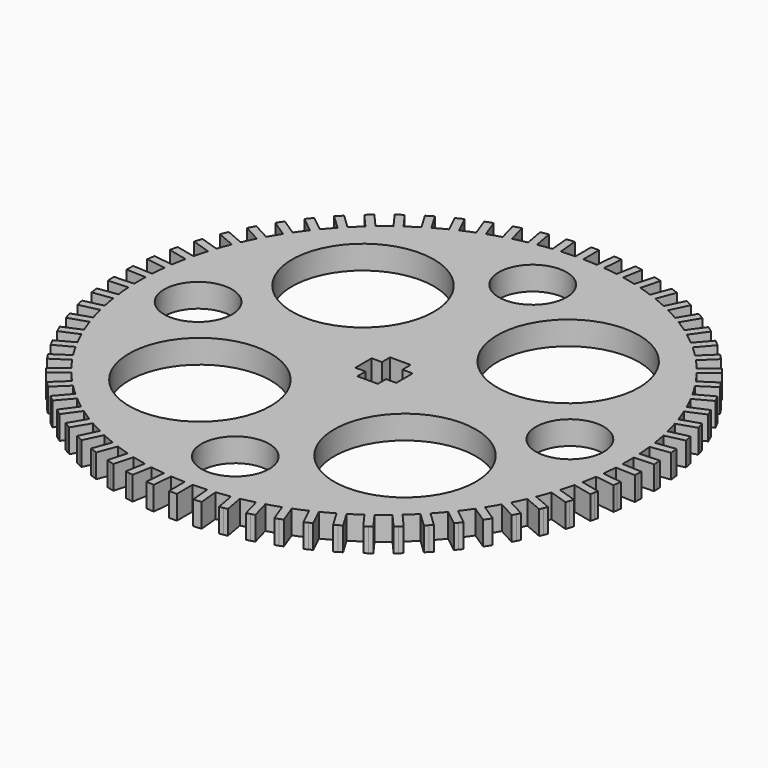
from build123d import *

# Parameters (mm, degrees)
F0_R     = 9
F0_R_2   = 4.305579
F1_DEPTH = 3


with BuildPart() as f1:
    # F0 (on Top) → F1 (new body)
    with BuildSketch(Plane.XY):
        with BuildLine():
            ThreePointArc((30.987189, -0.891132), (30.996797, -0.445612), (31, 0))
            ThreePointArc((31, 0), (30.996797, 0.445612), (30.987189, 0.891132))
            ThreePointArc((30.987189, 0.891132), (30.968785, 1.39081), (30.942324, 1.890125))
            ThreePointArc((30.942324, 1.890125), (30.875203, 2.778819), (30.782563, 3.665215))
            ThreePointArc((30.782563, 3.665215), (30.719443, 4.161231), (30.64833, 4.656165))
            ThreePointArc((30.64833, 4.656165), (30.501817, 5.535264), (30.330094, 6.409788))
            ThreePointArc((30.330094, 6.409788), (30.222765, 6.898149), (30.107573, 7.384716))
            ThreePointArc((30.107573, 7.384716), (29.882849, 8.247142), (29.633425, 9.102752))
            ThreePointArc((29.633425, 9.102752), (29.482752, 9.579527), (29.324408, 10.053809))
            ThreePointArc((29.324408, 10.053809), (29.023281, 10.89262), (28.698165, 11.722427))
            ThreePointArc((28.698165, 11.722427), (28.505361, 12.183776), (28.30514, 12.641955))
            ThreePointArc((28.30514, 12.641955), (27.930035, 13.450396), (27.531845, 14.24772))
            ThreePointArc((27.531845, 14.24772), (27.298461, 14.689929), (27.057976, 15.128315))
            ThreePointArc((27.057976, 15.128315), (26.611913, 15.899878), (26.143854, 16.658298))
            ThreePointArc((26.143854, 16.658298), (25.871771, 17.077806), (25.592957, 17.492872))
            ThreePointArc((25.592957, 17.492872), (25.079527, 18.221343), (24.545368, 18.934754))
            ThreePointArc((24.545368, 18.934754), (24.236776, 19.328184), (23.921878, 19.716585))
            ThreePointArc((23.921878, 19.716585), (23.345215, 20.396101), (22.749257, 21.058758))
            ThreePointArc((22.749257, 21.058758), (22.406641, 21.422942), (22.058195, 21.781553))
            ThreePointArc((22.058195, 21.781553), (21.422942, 22.406641), (20.769983, 23.013209))
            ThreePointArc((20.769983, 23.013209), (20.396101, 23.345215), (20.016912, 23.671148))
            ThreePointArc((20.016912, 23.671148), (19.328184, 24.236776), (18.623481, 24.782372))
            ThreePointArc((18.623481, 24.782372), (18.221343, 25.079527), (17.814464, 25.370157))
            ThreePointArc((17.814464, 25.370157), (17.077806, 25.871771), (16.327034, 26.352001))
            ThreePointArc((16.327034, 26.352001), (15.899878, 26.611913), (15.468585, 26.864901))
            ThreePointArc((15.468585, 26.864901), (14.689929, 27.298461), (13.899131, 27.70946))
            ThreePointArc((13.899131, 27.70946), (13.450396, 27.930035), (12.998162, 28.143344))
            ThreePointArc((12.998162, 28.143344), (12.183776, 28.505361), (11.35932, 28.843818))
            ThreePointArc((11.35932, 28.843818), (10.89262, 29.023281), (10.423085, 29.195193))
            ThreePointArc((10.423085, 29.195193), (9.579527, 29.482752), (8.728051, 29.745943))
            ThreePointArc((8.728051, 29.745943), (8.247142, 29.882849), (7.764088, 30.01198))
            ThreePointArc((7.764088, 30.01198), (6.898149, 30.222765), (6.026508, 30.408571))
            ThreePointArc((6.026508, 30.408571), (5.535264, 30.501817), (5.042579, 30.587128))
            ThreePointArc((5.042579, 30.587128), (4.161231, 30.719443), (3.276444, 30.826367))
            ThreePointArc((3.276444, 30.826367), (2.778819, 30.875203), (2.28047, 30.916006))
            ThreePointArc((2.28047, 30.916006), (1.39081, 30.968785), (0.5, 30.995967))
            ThreePointArc((0.5, 30.995967), (0.250008, 30.998992), (0, 31))
            ThreePointArc((0, 31), (-0.250008, 30.998992), (-0.5, 30.995967))
            ThreePointArc((-0.5, 30.995967), (-1.39081, 30.968785), (-2.28047, 30.916006))
            ThreePointArc((-2.28047, 30.916006), (-2.778819, 30.875203), (-3.276444, 30.826367))
            ThreePointArc((-3.276444, 30.826367), (-4.161231, 30.719443), (-5.042579, 30.587128))
            ThreePointArc((-5.042579, 30.587128), (-5.535264, 30.501817), (-6.026508, 30.408571))
            ThreePointArc((-6.026508, 30.408571), (-6.898149, 30.222765), (-7.764088, 30.01198))
            ThreePointArc((-7.764088, 30.01198), (-8.247142, 29.882849), (-8.728051, 29.745943))
            ThreePointArc((-8.728051, 29.745943), (-9.579527, 29.482752), (-10.423085, 29.195193))
            ThreePointArc((-10.423085, 29.195193), (-10.89262, 29.023281), (-11.35932, 28.843818))
            ThreePointArc((-11.35932, 28.843818), (-12.183776, 28.505361), (-12.998162, 28.143344))
            ThreePointArc((-12.998162, 28.143344), (-13.450396, 27.930035), (-13.899131, 27.70946))
            ThreePointArc((-13.899131, 27.70946), (-14.689929, 27.298461), (-15.468585, 26.864901))
            ThreePointArc((-15.468585, 26.864901), (-15.899878, 26.611913), (-16.327034, 26.352001))
            ThreePointArc((-16.327034, 26.352001), (-17.077806, 25.871771), (-17.814464, 25.370157))
            ThreePointArc((-17.814464, 25.370157), (-18.221343, 25.079527), (-18.623481, 24.782372))
            ThreePointArc((-18.623481, 24.782372), (-19.328184, 24.236776), (-20.016912, 23.671148))
            ThreePointArc((-20.016912, 23.671148), (-20.396101, 23.345215), (-20.769983, 23.013209))
            ThreePointArc((-20.769983, 23.013209), (-21.422942, 22.406641), (-22.058195, 21.781553))
            ThreePointArc((-22.058195, 21.781553), (-22.406641, 21.422942), (-22.749257, 21.058758))
            ThreePointArc((-22.749257, 21.058758), (-23.345215, 20.396101), (-23.921878, 19.716585))
            ThreePointArc((-23.921878, 19.716585), (-24.236776, 19.328184), (-24.545368, 18.934754))
            ThreePointArc((-24.545368, 18.934754), (-25.079527, 18.221343), (-25.592957, 17.492872))
            ThreePointArc((-25.592957, 17.492872), (-25.871771, 17.077806), (-26.143854, 16.658298))
            ThreePointArc((-26.143854, 16.658298), (-26.611913, 15.899878), (-27.057976, 15.128315))
            ThreePointArc((-27.057976, 15.128315), (-27.298461, 14.689929), (-27.531845, 14.24772))
            ThreePointArc((-27.531845, 14.24772), (-27.930035, 13.450396), (-28.30514, 12.641955))
            ThreePointArc((-28.30514, 12.641955), (-28.505361, 12.183776), (-28.698165, 11.722427))
            ThreePointArc((-28.698165, 11.722427), (-29.023281, 10.89262), (-29.324408, 10.053809))
            ThreePointArc((-29.324408, 10.053809), (-29.482752, 9.579527), (-29.633425, 9.102752))
            ThreePointArc((-29.633425, 9.102752), (-29.882849, 8.247142), (-30.107573, 7.384716))
            ThreePointArc((-30.107573, 7.384716), (-30.222765, 6.898149), (-30.330094, 6.409788))
            ThreePointArc((-30.330094, 6.409788), (-30.501817, 5.535264), (-30.64833, 4.656165))
            ThreePointArc((-30.64833, 4.656165), (-30.719443, 4.161231), (-30.782563, 3.665215))
            ThreePointArc((-30.782563, 3.665215), (-30.875203, 2.778819), (-30.942324, 1.890125))
            ThreePointArc((-30.942324, 1.890125), (-30.968785, 1.39081), (-30.987189, 0.891132))
            ThreePointArc((-30.987189, 0.891132), (-31, 0), (-30.987189, -0.891132))
            ThreePointArc((-30.987189, -0.891132), (-30.968785, -1.39081), (-30.942324, -1.890125))
            ThreePointArc((-30.942324, -1.890125), (-30.875203, -2.778819), (-30.782563, -3.665215))
            ThreePointArc((-30.782563, -3.665215), (-30.719443, -4.161231), (-30.64833, -4.656165))
            ThreePointArc((-30.64833, -4.656165), (-30.501817, -5.535264), (-30.330094, -6.409788))
            ThreePointArc((-30.330094, -6.409788), (-30.222765, -6.898149), (-30.107573, -7.384716))
            ThreePointArc((-30.107573, -7.384716), (-29.882849, -8.247142), (-29.633425, -9.102752))
            ThreePointArc((-29.633425, -9.102752), (-29.482752, -9.579527), (-29.324408, -10.053809))
            ThreePointArc((-29.324408, -10.053809), (-29.023281, -10.89262), (-28.698165, -11.722427))
            ThreePointArc((-28.698165, -11.722427), (-28.505361, -12.183776), (-28.30514, -12.641955))
            ThreePointArc((-28.30514, -12.641955), (-27.930035, -13.450396), (-27.531845, -14.24772))
            ThreePointArc((-27.531845, -14.24772), (-27.298461, -14.689929), (-27.057976, -15.128315))
            ThreePointArc((-27.057976, -15.128315), (-26.611913, -15.899878), (-26.143854, -16.658298))
            ThreePointArc((-26.143854, -16.658298), (-25.871771, -17.077806), (-25.592957, -17.492872))
            ThreePointArc((-25.592957, -17.492872), (-25.079527, -18.221343), (-24.545368, -18.934754))
            ThreePointArc((-24.545368, -18.934754), (-24.236776, -19.328184), (-23.921878, -19.716585))
            ThreePointArc((-23.921878, -19.716585), (-23.345215, -20.396101), (-22.749257, -21.058758))
            ThreePointArc((-22.749257, -21.058758), (-22.406641, -21.422942), (-22.058195, -21.781553))
            ThreePointArc((-22.058195, -21.781553), (-21.422942, -22.406641), (-20.769983, -23.013209))
            ThreePointArc((-20.769983, -23.013209), (-20.396101, -23.345215), (-20.016912, -23.671148))
            ThreePointArc((-20.016912, -23.671148), (-19.328184, -24.236776), (-18.623481, -24.782372))
            ThreePointArc((-18.623481, -24.782372), (-18.221343, -25.079527), (-17.814464, -25.370157))
            ThreePointArc((-17.814464, -25.370157), (-17.077806, -25.871771), (-16.327034, -26.352001))
            ThreePointArc((-16.327034, -26.352001), (-15.899878, -26.611913), (-15.468585, -26.864901))
            ThreePointArc((-15.468585, -26.864901), (-14.689929, -27.298461), (-13.899131, -27.70946))
            ThreePointArc((-13.899131, -27.70946), (-13.450396, -27.930035), (-12.998162, -28.143344))
            ThreePointArc((-12.998162, -28.143344), (-12.183776, -28.505361), (-11.35932, -28.843818))
            ThreePointArc((-11.35932, -28.843818), (-10.89262, -29.023281), (-10.423085, -29.195193))
            ThreePointArc((-10.423085, -29.195193), (-9.579527, -29.482752), (-8.728051, -29.745943))
            ThreePointArc((-8.728051, -29.745943), (-8.247142, -29.882849), (-7.764088, -30.01198))
            ThreePointArc((-7.764088, -30.01198), (-6.898149, -30.222765), (-6.026508, -30.408571))
            ThreePointArc((-6.026508, -30.408571), (-5.535264, -30.501817), (-5.042579, -30.587128))
            ThreePointArc((-5.042579, -30.587128), (-4.161231, -30.719443), (-3.276444, -30.826367))
            ThreePointArc((-3.276444, -30.826367), (-2.778819, -30.875203), (-2.28047, -30.916006))
            ThreePointArc((-2.28047, -30.916006), (-1.39081, -30.968785), (-0.5, -30.995967))
            ThreePointArc((-0.5, -30.995967), (0, -31), (0.5, -30.995967))
            ThreePointArc((0.5, -30.995967), (1.39081, -30.968785), (2.28047, -30.916006))
            ThreePointArc((2.28047, -30.916006), (2.778819, -30.875203), (3.276444, -30.826367))
            ThreePointArc((3.276444, -30.826367), (4.161231, -30.719443), (5.042579, -30.587128))
            ThreePointArc((5.042579, -30.587128), (5.535264, -30.501817), (6.026508, -30.408571))
            ThreePointArc((6.026508, -30.408571), (6.898149, -30.222765), (7.764088, -30.01198))
            ThreePointArc((7.764088, -30.01198), (8.247142, -29.882849), (8.728051, -29.745943))
            ThreePointArc((8.728051, -29.745943), (9.579527, -29.482752), (10.423085, -29.195193))
            ThreePointArc((10.423085, -29.195193), (10.89262, -29.023281), (11.35932, -28.843818))
            ThreePointArc((11.35932, -28.843818), (12.183776, -28.505361), (12.998162, -28.143344))
            ThreePointArc((12.998162, -28.143344), (13.450396, -27.930035), (13.899131, -27.70946))
            ThreePointArc((13.899131, -27.70946), (14.689929, -27.298461), (15.468585, -26.864901))
            ThreePointArc((15.468585, -26.864901), (15.899878, -26.611913), (16.327034, -26.352001))
            ThreePointArc((16.327034, -26.352001), (17.077806, -25.871771), (17.814464, -25.370157))
            ThreePointArc((17.814464, -25.370157), (18.221343, -25.079527), (18.623481, -24.782372))
            ThreePointArc((18.623481, -24.782372), (19.328184, -24.236776), (20.016912, -23.671148))
            ThreePointArc((20.016912, -23.671148), (20.396101, -23.345215), (20.769983, -23.013209))
            ThreePointArc((20.769983, -23.013209), (21.422942, -22.406641), (22.058195, -21.781553))
            ThreePointArc((22.058195, -21.781553), (22.406641, -21.422942), (22.749257, -21.058758))
            ThreePointArc((22.749257, -21.058758), (23.345215, -20.396101), (23.921878, -19.716585))
            ThreePointArc((23.921878, -19.716585), (24.236776, -19.328184), (24.545368, -18.934754))
            ThreePointArc((24.545368, -18.934754), (25.079527, -18.221343), (25.592957, -17.492872))
            ThreePointArc((25.592957, -17.492872), (25.871771, -17.077806), (26.143854, -16.658298))
            ThreePointArc((26.143854, -16.658298), (26.611913, -15.899878), (27.057976, -15.128315))
            ThreePointArc((27.057976, -15.128315), (27.298461, -14.689929), (27.531845, -14.24772))
            ThreePointArc((27.531845, -14.24772), (27.930035, -13.450396), (28.30514, -12.641955))
            ThreePointArc((28.30514, -12.641955), (28.505361, -12.183776), (28.698165, -11.722427))
            ThreePointArc((28.698165, -11.722427), (29.023281, -10.89262), (29.324408, -10.053809))
            ThreePointArc((29.324408, -10.053809), (29.482752, -9.579527), (29.633425, -9.102752))
            ThreePointArc((29.633425, -9.102752), (29.882849, -8.247142), (30.107573, -7.384716))
            ThreePointArc((30.107573, -7.384716), (30.222765, -6.898149), (30.330094, -6.409788))
            ThreePointArc((30.330094, -6.409788), (30.501817, -5.535264), (30.64833, -4.656165))
            ThreePointArc((30.64833, -4.656165), (30.719443, -4.161231), (30.782563, -3.665215))
            ThreePointArc((30.782563, -3.665215), (30.875203, -2.778819), (30.942324, -1.890125))
            ThreePointArc((30.942324, -1.890125), (30.968785, -1.39081), (30.987189, -0.891132))
        make_face()
        with Locations((-13.022257, -12.945549)):
            Circle(F0_R, mode=Mode.SUBTRACT)
        with Locations((0, -23.602057)):
            Circle(F0_R_2, mode=Mode.SUBTRACT)
        with Locations((13.022257, -12.945549)):
            Circle(F0_R, mode=Mode.SUBTRACT)
        with Locations((-23.602057, 0)):
            Circle(F0_R_2, mode=Mode.SUBTRACT)
        with Locations((-13.022257, 12.945549)):
            Circle(F0_R, mode=Mode.SUBTRACT)
        Polygon((-1.3, 2.6), (0, 2.6), (1.3, 2.6), (1.3, 1.3), (2.6, 1.3), (2.6, 0), (2.6, -1.3), (1.3, -1.3), (1.3, -2.6), (0, -2.6), (-1.3, -2.6), (-1.3, -1.3), (-2.6, -1.3), (-2.6, 0), (-2.6, 1.3), (-1.3, 1.3), align=None, mode=Mode.SUBTRACT)
        with Locations((13.022257, 12.945549)):
            Circle(F0_R, mode=Mode.SUBTRACT)
        with Locations((23.602057, 0)):
            Circle(F0_R_2, mode=Mode.SUBTRACT)
        with Locations((0, 23.602057)):
            Circle(F0_R_2, mode=Mode.SUBTRACT)
        with BuildLine():
            ThreePointArc((30.942324, 1.890125), (30.968785, 1.39081), (30.987189, 0.891132))
            Line((30.987189, 0.891132), (33.4887, 1.003475))
            Line((33.4887, 1.003475), (33.466268, 1.502972))
            Line((33.466268, 1.502972), (33.443835, 2.002468))
            Line((33.443835, 2.002468), (30.942324, 1.890125))
        make_face()
        with BuildLine():
            Line((33.4887, -1.003475), (30.987189, -0.891132))
            ThreePointArc((30.987189, -0.891132), (30.968785, -1.39081), (30.942324, -1.890125))
            Line((30.942324, -1.890125), (33.443835, -2.002468))
            Line((33.443835, -2.002468), (33.466268, -1.502972))
            Line((33.466268, -1.502972), (33.4887, -1.003475))
        make_face()
        with BuildLine():
            ThreePointArc((30.64833, 4.656165), (30.719443, 4.161231), (30.782563, 3.665215))
            Line((30.782563, 3.665215), (33.263934, 4.00134))
            Line((33.263934, 4.00134), (33.196817, 4.496814))
            Line((33.196817, 4.496814), (33.1297, 4.992289))
            Line((33.1297, 4.992289), (30.64833, 4.656165))
        make_face()
        with BuildLine():
            Line((33.263934, -4.00134), (30.782563, -3.665215))
            ThreePointArc((30.782563, -3.665215), (30.719443, -4.161231), (30.64833, -4.656165))
            Line((30.64833, -4.656165), (33.1297, -4.992289))
            Line((33.1297, -4.992289), (33.196817, -4.496814))
            Line((33.196817, -4.496814), (33.263934, -4.00134))
        make_face()
        with BuildLine():
            ThreePointArc((30.107573, 7.384716), (30.222765, 6.898149), (30.330094, 6.409788))
            Line((30.330094, 6.409788), (32.771346, 6.966987))
            Line((32.771346, 6.966987), (32.660085, 7.454451))
            Line((32.660085, 7.454451), (32.548825, 7.941915))
            Line((32.548825, 7.941915), (30.107573, 7.384716))
        make_face()
        with BuildLine():
            Line((32.771346, -6.966987), (30.330094, -6.409788))
            ThreePointArc((30.330094, -6.409788), (30.222765, -6.898149), (30.107573, -7.384716))
            Line((30.107573, -7.384716), (32.548825, -7.941915))
            Line((32.548825, -7.941915), (32.660085, -7.454451))
            Line((32.660085, -7.454451), (32.771346, -6.966987))
        make_face()
        with BuildLine():
            ThreePointArc((29.324408, 10.053809), (29.482752, 9.579527), (29.633425, 9.102752))
            Line((29.633425, 9.102752), (32.014902, 9.876541))
            Line((32.014902, 9.876541), (31.860393, 10.352069))
            Line((31.860393, 10.352069), (31.705885, 10.827598))
            Line((31.705885, 10.827598), (29.324408, 10.053809))
        make_face()
        with BuildLine():
            Line((32.014902, -9.876541), (29.633425, -9.102752))
            ThreePointArc((29.633425, -9.102752), (29.482752, -9.579527), (29.324408, -10.053809))
            Line((29.324408, -10.053809), (31.705885, -10.827598))
            Line((31.705885, -10.827598), (31.860393, -10.352069))
            Line((31.860393, -10.352069), (32.014902, -9.876541))
        make_face()
        with BuildLine():
            ThreePointArc((28.30514, 12.641955), (28.505361, 12.183776), (28.698165, 11.722427))
            Line((28.698165, 11.722427), (31.000693, 12.706575))
            Line((31.000693, 12.706575), (30.80418, 13.166339))
            Line((30.80418, 13.166339), (30.607668, 13.626102))
            Line((30.607668, 13.626102), (28.30514, 12.641955))
        make_face()
        with BuildLine():
            Line((31.000693, -12.706575), (28.698165, -11.722427))
            ThreePointArc((28.698165, -11.722427), (28.505361, -12.183776), (28.30514, -12.641955))
            Line((28.30514, -12.641955), (30.607668, -13.626102))
            Line((30.607668, -13.626102), (30.80418, -13.166339))
            Line((30.80418, -13.166339), (31.000693, -12.706575))
        make_face()
        with BuildLine():
            ThreePointArc((27.057976, 15.128315), (27.298461, 14.689929), (27.531845, 14.24772))
            Line((27.531845, 14.24772), (29.736885, 15.434302))
            Line((29.736885, 15.434302), (29.49995, 15.8746))
            Line((29.49995, 15.8746), (29.263016, 16.314898))
            Line((29.263016, 16.314898), (27.057976, 15.128315))
        make_face()
        with BuildLine():
            Line((29.736885, -15.434302), (27.531845, -14.24772))
            ThreePointArc((27.531845, -14.24772), (27.298461, -14.689929), (27.057976, -15.128315))
            Line((27.057976, -15.128315), (29.263016, -16.314898))
            Line((29.263016, -16.314898), (29.49995, -15.8746))
            Line((29.49995, -15.8746), (29.736885, -15.434302))
        make_face()
        with BuildLine():
            ThreePointArc((25.592957, 17.492872), (25.871771, 17.077806), (26.143854, 16.658298))
            Line((26.143854, 16.658298), (28.233652, 18.037762))
            Line((28.233652, 18.037762), (27.958204, 18.455049))
            Line((27.958204, 18.455049), (27.682756, 18.872336))
            Line((27.682756, 18.872336), (25.592957, 17.492872))
        make_face()
        with BuildLine():
            Line((28.233652, -18.037762), (26.143854, -16.658298))
            ThreePointArc((26.143854, -16.658298), (25.871771, -17.077806), (25.592957, -17.492872))
            Line((25.592957, -17.492872), (27.682756, -18.872336))
            Line((27.682756, -18.872336), (27.958204, -18.455049))
            Line((27.958204, -18.455049), (28.233652, -18.037762))
        make_face()
        with BuildLine():
            ThreePointArc((23.921878, 19.716585), (24.236776, 19.328184), (24.545368, 18.934754))
            Line((24.545368, 18.934754), (26.5031, 20.495993))
            Line((26.5031, 20.495993), (26.191355, 20.886908))
            Line((26.191355, 20.886908), (25.87961, 21.277824))
            Line((25.87961, 21.277824), (23.921878, 19.716585))
        make_face()
        with BuildLine():
            Line((26.5031, -20.495993), (24.545368, -18.934754))
            ThreePointArc((24.545368, -18.934754), (24.236776, -19.328184), (23.921878, -19.716585))
            Line((23.921878, -19.716585), (25.87961, -21.277824))
            Line((25.87961, -21.277824), (26.191355, -20.886908))
            Line((26.191355, -20.886908), (26.5031, -20.495993))
        make_face()
        with BuildLine():
            ThreePointArc((22.058195, 21.781553), (22.406641, 21.422942), (22.749257, 21.058758))
            Line((22.749257, 21.058758), (24.559159, 22.789201))
            Line((24.559159, 22.789201), (24.213628, 23.150599))
            Line((24.213628, 23.150599), (23.868097, 23.511996))
            Line((23.868097, 23.511996), (22.058195, 21.781553))
        make_face()
        with BuildLine():
            Line((24.559159, -22.789201), (22.749257, -21.058758))
            ThreePointArc((22.749257, -21.058758), (22.406641, -21.422942), (22.058195, -21.781553))
            Line((22.058195, -21.781553), (23.868097, -23.511996))
            Line((23.868097, -23.511996), (24.213628, -23.150599))
            Line((24.213628, -23.150599), (24.559159, -22.789201))
        make_face()
        with BuildLine():
            ThreePointArc((20.016912, 23.671148), (20.396101, 23.345215), (20.769983, 23.013209))
            Line((20.769983, 23.013209), (22.417483, 24.898925))
            Line((22.417483, 24.898925), (22.040947, 25.227894))
            Line((22.040947, 25.227894), (21.664412, 25.556863))
            Line((21.664412, 25.556863), (20.016912, 23.671148))
        make_face()
        with BuildLine():
            Line((22.417483, -24.898925), (20.769983, -23.013209))
            ThreePointArc((20.769983, -23.013209), (20.396101, -23.345215), (20.016912, -23.671148))
            Line((20.016912, -23.671148), (21.664412, -25.556863))
            Line((21.664412, -25.556863), (22.040947, -25.227894))
            Line((22.040947, -25.227894), (22.417483, -24.898925))
        make_face()
        with BuildLine():
            ThreePointArc((17.814464, 25.370157), (18.221343, 25.079527), (18.623481, 24.782372))
            Line((18.623481, 24.782372), (20.095314, 26.808177))
            Line((20.095314, 26.808177), (19.690806, 27.102069))
            Line((19.690806, 27.102069), (19.286297, 27.395962))
            Line((19.286297, 27.395962), (17.814464, 25.370157))
        make_face()
        with BuildLine():
            Line((20.095314, -26.808177), (18.623481, -24.782372))
            ThreePointArc((18.623481, -24.782372), (18.221343, -25.079527), (17.814464, -25.370157))
            Line((17.814464, -25.370157), (19.286297, -27.395962))
            Line((19.286297, -27.395962), (19.690806, -27.102069))
            Line((19.690806, -27.102069), (20.095314, -26.808177))
        make_face()
        with BuildLine():
            ThreePointArc((15.468585, 26.864901), (15.899878, 26.611913), (16.327034, 26.352001))
            Line((16.327034, 26.352001), (17.61135, 28.501585))
            Line((17.61135, 28.501585), (17.182126, 28.758035))
            Line((17.182126, 28.758035), (16.752901, 29.014484))
            Line((16.752901, 29.014484), (15.468585, 26.864901))
        make_face()
        with BuildLine():
            Line((17.61135, -28.501585), (16.327034, -26.352001))
            ThreePointArc((16.327034, -26.352001), (15.899878, -26.611913), (15.468585, -26.864901))
            Line((15.468585, -26.864901), (16.752901, -29.014484))
            Line((16.752901, -29.014484), (17.182126, -28.758035))
            Line((17.182126, -28.758035), (17.61135, -28.501585))
        make_face()
        with BuildLine():
            ThreePointArc((12.998162, 28.143344), (13.450396, 27.930035), (13.899131, 27.70946))
            Line((13.899131, 27.70946), (14.98559, 29.965515))
            Line((14.98559, 29.965515), (14.535105, 30.182457))
            Line((14.535105, 30.182457), (14.084621, 30.399399))
            Line((14.084621, 30.399399), (12.998162, 28.143344))
        make_face()
        with BuildLine():
            Line((14.98559, -29.965515), (13.899131, -27.70946))
            ThreePointArc((13.899131, -27.70946), (13.450396, -27.930035), (12.998162, -28.143344))
            Line((12.998162, -28.143344), (14.084621, -30.399399))
            Line((14.084621, -30.399399), (14.535105, -30.182457))
            Line((14.535105, -30.182457), (14.98559, -29.965515))
        make_face()
        with BuildLine():
            ThreePointArc((10.423085, 29.195193), (10.89262, 29.023281), (11.35932, 28.843818))
            Line((11.35932, 28.843818), (12.239174, 31.188181))
            Line((12.239174, 31.188181), (11.771057, 31.363868))
            Line((11.771057, 31.363868), (11.302939, 31.539556))
            Line((11.302939, 31.539556), (10.423085, 29.195193))
        make_face()
        with BuildLine():
            Line((12.239174, -31.188181), (11.35932, -28.843818))
            ThreePointArc((11.35932, -28.843818), (10.89262, -29.023281), (10.423085, -29.195193))
            Line((10.423085, -29.195193), (11.302939, -31.539556))
            Line((11.302939, -31.539556), (11.771057, -31.363868))
            Line((11.771057, -31.363868), (12.239174, -31.188181))
        make_face()
        with BuildLine():
            ThreePointArc((7.764088, 30.01198), (8.247142, 29.882849), (8.728051, 29.745943))
            Line((8.728051, 29.745943), (9.394216, 32.159737))
            Line((9.394216, 32.159737), (8.912234, 32.292756))
            Line((8.912234, 32.292756), (8.430253, 32.425774))
            Line((8.430253, 32.425774), (7.764088, 30.01198))
        make_face()
        with BuildLine():
            Line((9.394216, -32.159737), (8.728051, -29.745943))
            ThreePointArc((8.728051, -29.745943), (8.247142, -29.882849), (7.764088, -30.01198))
            Line((7.764088, -30.01198), (8.430253, -32.425774))
            Line((8.430253, -32.425774), (8.912234, -32.292756))
            Line((8.912234, -32.292756), (9.394216, -32.159737))
        make_face()
        with BuildLine():
            ThreePointArc((5.042579, 30.587128), (5.535264, 30.501817), (6.026508, 30.408571))
            Line((6.026508, 30.408571), (6.473621, 32.872363))
            Line((6.473621, 32.872363), (5.981656, 32.961641))
            Line((5.981656, 32.961641), (5.489691, 33.05092))
            Line((5.489691, 33.05092), (5.042579, 30.587128))
        make_face()
        with BuildLine():
            Line((6.473621, -32.872363), (6.026508, -30.408571))
            ThreePointArc((6.026508, -30.408571), (5.535264, -30.501817), (5.042579, -30.587128))
            Line((5.042579, -30.587128), (5.489691, -33.05092))
            Line((5.489691, -33.05092), (5.981656, -32.961641))
            Line((5.981656, -32.961641), (6.473621, -32.872363))
        make_face()
        with BuildLine():
            ThreePointArc((2.28047, 30.916006), (2.778819, 30.875203), (3.276444, 30.826367))
            Line((3.276444, 30.826367), (3.500904, 33.320319))
            Line((3.500904, 33.320319), (3.002917, 33.365139))
            Line((3.002917, 33.365139), (2.50493, 33.409959))
            Line((2.50493, 33.409959), (2.28047, 30.916006))
        make_face()
        with BuildLine():
            Line((3.500904, -33.320319), (3.276444, -30.826367))
            ThreePointArc((3.276444, -30.826367), (2.778819, -30.875203), (2.28047, -30.916006))
            Line((2.28047, -30.916006), (2.50493, -33.409959))
            Line((2.50493, -33.409959), (3.002917, -33.365139))
            Line((3.002917, -33.365139), (3.500904, -33.320319))
        make_face()
        with BuildLine():
            ThreePointArc((0, 31), (0.250008, 30.998992), (0.5, 30.995967))
            Line((0.5, 30.995967), (0.5, 33.5))
            Line((0.5, 33.5), (0, 33.5))
            Line((0, 33.5), (0, 31))
        make_face()
        with BuildLine():
            Line((0.5, -33.5), (0.5, -30.995967))
            ThreePointArc((0.5, -30.995967), (0, -31), (-0.5, -30.995967))
            Line((-0.5, -30.995967), (-0.5, -33.5))
            Line((-0.5, -33.5), (0, -33.5))
            Line((0, -33.5), (0.5, -33.5))
        make_face()
        with BuildLine():
            ThreePointArc((-0.5, 30.995967), (-0.250008, 30.998992), (0, 31))
            Line((0, 31), (0, 33.5))
            Line((0, 33.5), (-0.5, 33.5))
            Line((-0.5, 33.5), (-0.5, 30.995967))
        make_face()
        with BuildLine():
            Line((-2.50493, -33.409959), (-2.28047, -30.916006))
            ThreePointArc((-2.28047, -30.916006), (-2.778819, -30.875203), (-3.276444, -30.826367))
            Line((-3.276444, -30.826367), (-3.500904, -33.320319))
            Line((-3.500904, -33.320319), (-3.002917, -33.365139))
            Line((-3.002917, -33.365139), (-2.50493, -33.409959))
        make_face()
        with BuildLine():
            ThreePointArc((-3.276444, 30.826367), (-2.778819, 30.875203), (-2.28047, 30.916006))
            Line((-2.28047, 30.916006), (-2.50493, 33.409959))
            Line((-2.50493, 33.409959), (-3.002917, 33.365139))
            Line((-3.002917, 33.365139), (-3.500904, 33.320319))
            Line((-3.500904, 33.320319), (-3.276444, 30.826367))
        make_face()
        with BuildLine():
            Line((-5.489691, -33.05092), (-5.042579, -30.587128))
            ThreePointArc((-5.042579, -30.587128), (-5.535264, -30.501817), (-6.026508, -30.408571))
            Line((-6.026508, -30.408571), (-6.473621, -32.872363))
            Line((-6.473621, -32.872363), (-5.981656, -32.961641))
            Line((-5.981656, -32.961641), (-5.489691, -33.05092))
        make_face()
        with BuildLine():
            ThreePointArc((-6.026508, 30.408571), (-5.535264, 30.501817), (-5.042579, 30.587128))
            Line((-5.042579, 30.587128), (-5.489691, 33.05092))
            Line((-5.489691, 33.05092), (-5.981656, 32.961641))
            Line((-5.981656, 32.961641), (-6.473621, 32.872363))
            Line((-6.473621, 32.872363), (-6.026508, 30.408571))
        make_face()
        with BuildLine():
            Line((-8.430253, -32.425774), (-7.764088, -30.01198))
            ThreePointArc((-7.764088, -30.01198), (-8.247142, -29.882849), (-8.728051, -29.745943))
            Line((-8.728051, -29.745943), (-9.394216, -32.159737))
            Line((-9.394216, -32.159737), (-8.912234, -32.292756))
            Line((-8.912234, -32.292756), (-8.430253, -32.425774))
        make_face()
        with BuildLine():
            ThreePointArc((-8.728051, 29.745943), (-8.247142, 29.882849), (-7.764088, 30.01198))
            Line((-7.764088, 30.01198), (-8.430253, 32.425774))
            Line((-8.430253, 32.425774), (-8.912234, 32.292756))
            Line((-8.912234, 32.292756), (-9.394216, 32.159737))
            Line((-9.394216, 32.159737), (-8.728051, 29.745943))
        make_face()
        with BuildLine():
            Line((-11.302939, -31.539556), (-10.423085, -29.195193))
            ThreePointArc((-10.423085, -29.195193), (-10.89262, -29.023281), (-11.35932, -28.843818))
            Line((-11.35932, -28.843818), (-12.239174, -31.188181))
            Line((-12.239174, -31.188181), (-11.771057, -31.363868))
            Line((-11.771057, -31.363868), (-11.302939, -31.539556))
        make_face()
        with BuildLine():
            ThreePointArc((-11.35932, 28.843818), (-10.89262, 29.023281), (-10.423085, 29.195193))
            Line((-10.423085, 29.195193), (-11.302939, 31.539556))
            Line((-11.302939, 31.539556), (-11.771057, 31.363868))
            Line((-11.771057, 31.363868), (-12.239174, 31.188181))
            Line((-12.239174, 31.188181), (-11.35932, 28.843818))
        make_face()
        with BuildLine():
            Line((-14.084621, -30.399399), (-12.998162, -28.143344))
            ThreePointArc((-12.998162, -28.143344), (-13.450396, -27.930035), (-13.899131, -27.70946))
            Line((-13.899131, -27.70946), (-14.98559, -29.965515))
            Line((-14.98559, -29.965515), (-14.535105, -30.182457))
            Line((-14.535105, -30.182457), (-14.084621, -30.399399))
        make_face()
        with BuildLine():
            ThreePointArc((-13.899131, 27.70946), (-13.450396, 27.930035), (-12.998162, 28.143344))
            Line((-12.998162, 28.143344), (-14.084621, 30.399399))
            Line((-14.084621, 30.399399), (-14.535105, 30.182457))
            Line((-14.535105, 30.182457), (-14.98559, 29.965515))
            Line((-14.98559, 29.965515), (-13.899131, 27.70946))
        make_face()
        with BuildLine():
            Line((-16.752901, -29.014484), (-15.468585, -26.864901))
            ThreePointArc((-15.468585, -26.864901), (-15.899878, -26.611913), (-16.327034, -26.352001))
            Line((-16.327034, -26.352001), (-17.61135, -28.501585))
            Line((-17.61135, -28.501585), (-17.182126, -28.758035))
            Line((-17.182126, -28.758035), (-16.752901, -29.014484))
        make_face()
        with BuildLine():
            ThreePointArc((-16.327034, 26.352001), (-15.899878, 26.611913), (-15.468585, 26.864901))
            Line((-15.468585, 26.864901), (-16.752901, 29.014484))
            Line((-16.752901, 29.014484), (-17.182126, 28.758035))
            Line((-17.182126, 28.758035), (-17.61135, 28.501585))
            Line((-17.61135, 28.501585), (-16.327034, 26.352001))
        make_face()
        with BuildLine():
            Line((-19.286297, -27.395962), (-17.814464, -25.370157))
            ThreePointArc((-17.814464, -25.370157), (-18.221343, -25.079527), (-18.623481, -24.782372))
            Line((-18.623481, -24.782372), (-20.095314, -26.808177))
            Line((-20.095314, -26.808177), (-19.690806, -27.102069))
            Line((-19.690806, -27.102069), (-19.286297, -27.395962))
        make_face()
        with BuildLine():
            ThreePointArc((-18.623481, 24.782372), (-18.221343, 25.079527), (-17.814464, 25.370157))
            Line((-17.814464, 25.370157), (-19.286297, 27.395962))
            Line((-19.286297, 27.395962), (-19.690806, 27.102069))
            Line((-19.690806, 27.102069), (-20.095314, 26.808177))
            Line((-20.095314, 26.808177), (-18.623481, 24.782372))
        make_face()
        with BuildLine():
            Line((-21.664412, -25.556863), (-20.016912, -23.671148))
            ThreePointArc((-20.016912, -23.671148), (-20.396101, -23.345215), (-20.769983, -23.013209))
            Line((-20.769983, -23.013209), (-22.417483, -24.898925))
            Line((-22.417483, -24.898925), (-22.040947, -25.227894))
            Line((-22.040947, -25.227894), (-21.664412, -25.556863))
        make_face()
        with BuildLine():
            ThreePointArc((-20.769983, 23.013209), (-20.396101, 23.345215), (-20.016912, 23.671148))
            Line((-20.016912, 23.671148), (-21.664412, 25.556863))
            Line((-21.664412, 25.556863), (-22.040947, 25.227894))
            Line((-22.040947, 25.227894), (-22.417483, 24.898925))
            Line((-22.417483, 24.898925), (-20.769983, 23.013209))
        make_face()
        with BuildLine():
            Line((-23.868097, -23.511996), (-22.058195, -21.781553))
            ThreePointArc((-22.058195, -21.781553), (-22.406641, -21.422942), (-22.749257, -21.058758))
            Line((-22.749257, -21.058758), (-24.559159, -22.789201))
            Line((-24.559159, -22.789201), (-24.213628, -23.150599))
            Line((-24.213628, -23.150599), (-23.868097, -23.511996))
        make_face()
        with BuildLine():
            ThreePointArc((-22.749257, 21.058758), (-22.406641, 21.422942), (-22.058195, 21.781553))
            Line((-22.058195, 21.781553), (-23.868097, 23.511996))
            Line((-23.868097, 23.511996), (-24.213628, 23.150599))
            Line((-24.213628, 23.150599), (-24.559159, 22.789201))
            Line((-24.559159, 22.789201), (-22.749257, 21.058758))
        make_face()
        with BuildLine():
            Line((-25.87961, -21.277824), (-23.921878, -19.716585))
            ThreePointArc((-23.921878, -19.716585), (-24.236776, -19.328184), (-24.545368, -18.934754))
            Line((-24.545368, -18.934754), (-26.5031, -20.495993))
            Line((-26.5031, -20.495993), (-26.191355, -20.886908))
            Line((-26.191355, -20.886908), (-25.87961, -21.277824))
        make_face()
        with BuildLine():
            ThreePointArc((-24.545368, 18.934754), (-24.236776, 19.328184), (-23.921878, 19.716585))
            Line((-23.921878, 19.716585), (-25.87961, 21.277824))
            Line((-25.87961, 21.277824), (-26.191355, 20.886908))
            Line((-26.191355, 20.886908), (-26.5031, 20.495993))
            Line((-26.5031, 20.495993), (-24.545368, 18.934754))
        make_face()
        with BuildLine():
            Line((-27.682756, -18.872336), (-25.592957, -17.492872))
            ThreePointArc((-25.592957, -17.492872), (-25.871771, -17.077806), (-26.143854, -16.658298))
            Line((-26.143854, -16.658298), (-28.233652, -18.037762))
            Line((-28.233652, -18.037762), (-27.958204, -18.455049))
            Line((-27.958204, -18.455049), (-27.682756, -18.872336))
        make_face()
        with BuildLine():
            ThreePointArc((-26.143854, 16.658298), (-25.871771, 17.077806), (-25.592957, 17.492872))
            Line((-25.592957, 17.492872), (-27.682756, 18.872336))
            Line((-27.682756, 18.872336), (-27.958204, 18.455049))
            Line((-27.958204, 18.455049), (-28.233652, 18.037762))
            Line((-28.233652, 18.037762), (-26.143854, 16.658298))
        make_face()
        with BuildLine():
            Line((-29.263016, -16.314898), (-27.057976, -15.128315))
            ThreePointArc((-27.057976, -15.128315), (-27.298461, -14.689929), (-27.531845, -14.24772))
            Line((-27.531845, -14.24772), (-29.736885, -15.434302))
            Line((-29.736885, -15.434302), (-29.49995, -15.8746))
            Line((-29.49995, -15.8746), (-29.263016, -16.314898))
        make_face()
        with BuildLine():
            ThreePointArc((-27.531845, 14.24772), (-27.298461, 14.689929), (-27.057976, 15.128315))
            Line((-27.057976, 15.128315), (-29.263016, 16.314898))
            Line((-29.263016, 16.314898), (-29.49995, 15.8746))
            Line((-29.49995, 15.8746), (-29.736885, 15.434302))
            Line((-29.736885, 15.434302), (-27.531845, 14.24772))
        make_face()
        with BuildLine():
            Line((-30.607668, -13.626102), (-28.30514, -12.641955))
            ThreePointArc((-28.30514, -12.641955), (-28.505361, -12.183776), (-28.698165, -11.722427))
            Line((-28.698165, -11.722427), (-31.000693, -12.706575))
            Line((-31.000693, -12.706575), (-30.80418, -13.166339))
            Line((-30.80418, -13.166339), (-30.607668, -13.626102))
        make_face()
        with BuildLine():
            ThreePointArc((-28.698165, 11.722427), (-28.505361, 12.183776), (-28.30514, 12.641955))
            Line((-28.30514, 12.641955), (-30.607668, 13.626102))
            Line((-30.607668, 13.626102), (-30.80418, 13.166339))
            Line((-30.80418, 13.166339), (-31.000693, 12.706575))
            Line((-31.000693, 12.706575), (-28.698165, 11.722427))
        make_face()
        with BuildLine():
            Line((-31.705885, -10.827598), (-29.324408, -10.053809))
            ThreePointArc((-29.324408, -10.053809), (-29.482752, -9.579527), (-29.633425, -9.102752))
            Line((-29.633425, -9.102752), (-32.014902, -9.876541))
            Line((-32.014902, -9.876541), (-31.860393, -10.352069))
            Line((-31.860393, -10.352069), (-31.705885, -10.827598))
        make_face()
        with BuildLine():
            ThreePointArc((-29.633425, 9.102752), (-29.482752, 9.579527), (-29.324408, 10.053809))
            Line((-29.324408, 10.053809), (-31.705885, 10.827598))
            Line((-31.705885, 10.827598), (-31.860393, 10.352069))
            Line((-31.860393, 10.352069), (-32.014902, 9.876541))
            Line((-32.014902, 9.876541), (-29.633425, 9.102752))
        make_face()
        with BuildLine():
            Line((-32.548825, -7.941915), (-30.107573, -7.384716))
            ThreePointArc((-30.107573, -7.384716), (-30.222765, -6.898149), (-30.330094, -6.409788))
            Line((-30.330094, -6.409788), (-32.771346, -6.966987))
            Line((-32.771346, -6.966987), (-32.660085, -7.454451))
            Line((-32.660085, -7.454451), (-32.548825, -7.941915))
        make_face()
        with BuildLine():
            ThreePointArc((-30.330094, 6.409788), (-30.222765, 6.898149), (-30.107573, 7.384716))
            Line((-30.107573, 7.384716), (-32.548825, 7.941915))
            Line((-32.548825, 7.941915), (-32.660085, 7.454451))
            Line((-32.660085, 7.454451), (-32.771346, 6.966987))
            Line((-32.771346, 6.966987), (-30.330094, 6.409788))
        make_face()
        with BuildLine():
            Line((-33.1297, -4.992289), (-30.64833, -4.656165))
            ThreePointArc((-30.64833, -4.656165), (-30.719443, -4.161231), (-30.782563, -3.665215))
            Line((-30.782563, -3.665215), (-33.263934, -4.00134))
            Line((-33.263934, -4.00134), (-33.196817, -4.496814))
            Line((-33.196817, -4.496814), (-33.1297, -4.992289))
        make_face()
        with BuildLine():
            ThreePointArc((-30.782563, 3.665215), (-30.719443, 4.161231), (-30.64833, 4.656165))
            Line((-30.64833, 4.656165), (-33.1297, 4.992289))
            Line((-33.1297, 4.992289), (-33.196817, 4.496814))
            Line((-33.196817, 4.496814), (-33.263934, 4.00134))
            Line((-33.263934, 4.00134), (-30.782563, 3.665215))
        make_face()
        with BuildLine():
            Line((-33.443835, -2.002468), (-30.942324, -1.890125))
            ThreePointArc((-30.942324, -1.890125), (-30.968785, -1.39081), (-30.987189, -0.891132))
            Line((-30.987189, -0.891132), (-33.4887, -1.003475))
            Line((-33.4887, -1.003475), (-33.466268, -1.502972))
            Line((-33.466268, -1.502972), (-33.443835, -2.002468))
        make_face()
        with BuildLine():
            ThreePointArc((-30.987189, 0.891132), (-30.968785, 1.39081), (-30.942324, 1.890125))
            Line((-30.942324, 1.890125), (-33.443835, 2.002468))
            Line((-33.443835, 2.002468), (-33.466268, 1.502972))
            Line((-33.466268, 1.502972), (-33.4887, 1.003475))
            Line((-33.4887, 1.003475), (-30.987189, 0.891132))
        make_face()
    extrude(amount=F1_DEPTH)


solid = f1.part
